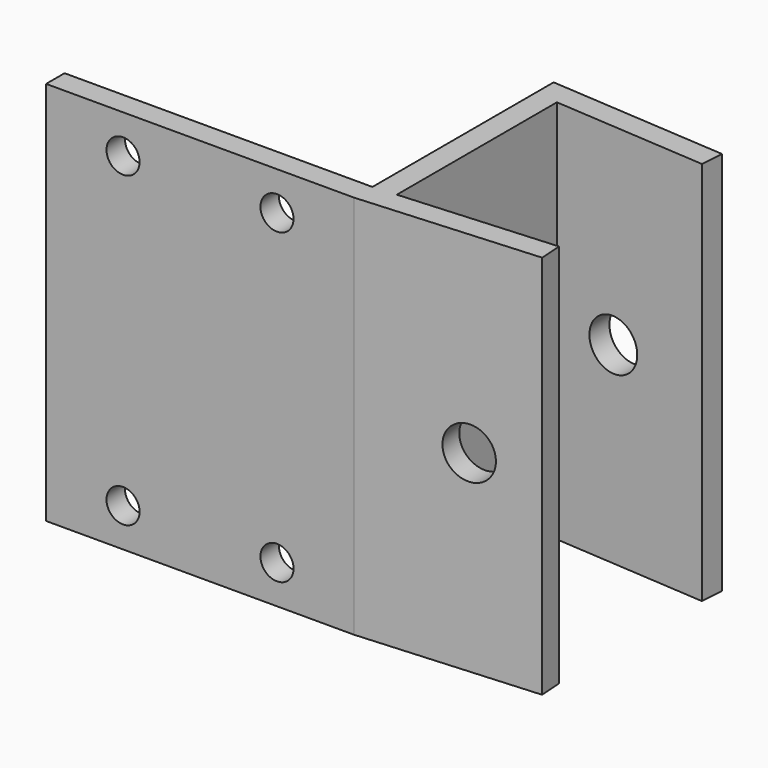
from build123d import *

# Parameters (mm, degrees)
PAD_DEPTH       = 50
SKETCH001_R     = 2.15
POCKET_DEPTH    = 5
SKETCH002_R     = 3.3
POCKET001_DEPTH = 5
SKETCH003_R     = 3.3
POCKET002_DEPTH = 5


with BuildPart() as part:
    # Sketch → Pad (new body)
    with BuildSketch(Plane.XY):
        Polygon((0, 26), (0, 0), (19.9512810052, 1.3951294749), (20.1605504264, -1.5975626759), (-3, -3.2171061301), (-43, -3.2171061301), (-43, -0.2171061301), (-3, -0.2171061301), (-3, 29.2171061301), (20.1605504264, 27.5975626759), (19.9512810052, 24.6048705251), align=None)
    extrude(amount=PAD_DEPTH)

    # Sketch001 (on Face7 of Pad) → Pocket (cut)
    with BuildSketch(Plane(origin=(0, -0.2171061301, 0), x_dir=(-1, 0, 0), z_dir=(0, 1, 0))):
        with Locations((13, 45)):
            Circle(SKETCH001_R)
        with Locations((33, 45)):
            Circle(SKETCH001_R)
        with Locations((13, 5)):
            Circle(SKETCH001_R)
        with Locations((33, 5)):
            Circle(SKETCH001_R)
    extrude(amount=-POCKET_DEPTH, mode=Mode.SUBTRACT)

    # Sketch002 (on Face13 of Pocket) → Pocket001 (cut)
    with BuildSketch(Plane(origin=(2.0185197337, 28.8661770444, 0), x_dir=(-0.9975640503, 0.0697564737, 0), z_dir=(0.0697564737, 0.9975640503, 0))):
        with Locations((-5.9692255526, 25)):
            Circle(SKETCH002_R)
    extrude(amount=-POCKET001_DEPTH, mode=Mode.SUBTRACT)

    # Sketch003 (on Face3 of Pocket001) → Pocket002 (cut)
    with BuildSketch(Plane(origin=(0, 0, 0), x_dir=(-0.9975640503, -0.0697564737, 0), z_dir=(-0.0697564737, 0.9975640503, 0))):
        with Locations((-11, 25)):
            Circle(SKETCH003_R)
    extrude(amount=-POCKET002_DEPTH, mode=Mode.SUBTRACT)


solid = part.part
